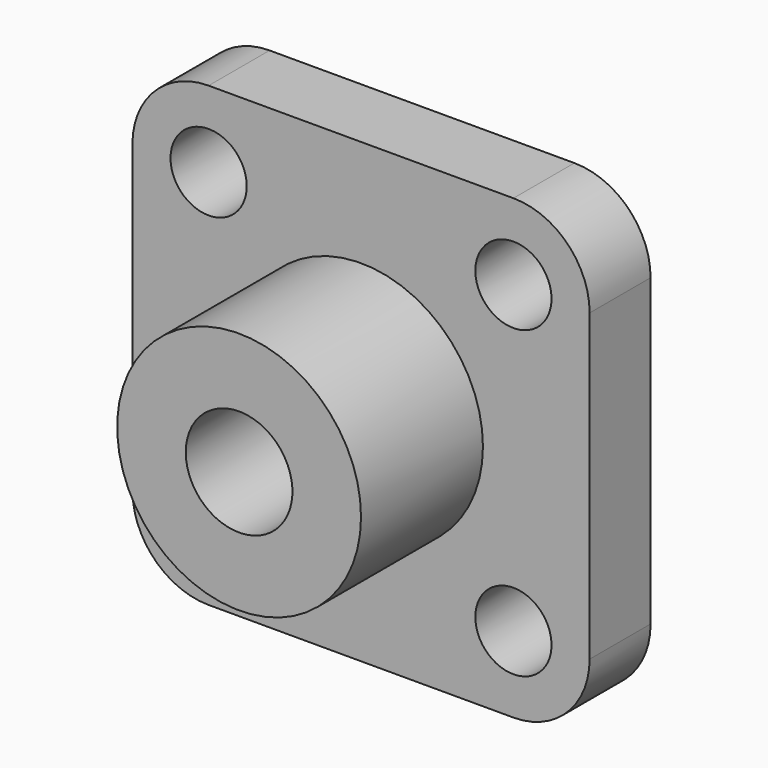
from build123d import *

# Parameters (mm, degrees)
F0_W     = 60
F0_H     = 60
F1_DEPTH = 10
F2_R     = 10
F4_D     = 10
F5_R     = 16
F6_DEPTH = 20
F8_D     = 14


with BuildPart() as f1:
    # F0 (on Front) → F1 (new body)
    with BuildSketch(Plane.XZ):
        Rectangle(F0_W, F0_H)
    extrude(amount=F1_DEPTH)

    # F2
    f2_edges = [f1.edges().sort_by_distance(p)[0] for p in [
        (-30, -5, 30),
        (-30, -5, -30),
        (30, -5, 30),
        (30, -5, -30),
    ]]
    fillet(f2_edges, radius=F2_R)

    # F4 (through all)
    with Locations(Plane.XZ.offset(10)):
        with Locations((-20, 20), (20, 20), (20, -20), (-20, -20)):
            Hole(F4_D / 2)

    # F5 (on face) → F6 (join)
    with BuildSketch(Plane.XZ.offset(10)):
        Circle(F5_R)
    extrude(amount=F6_DEPTH)

    # F8 (through all)
    with Locations(Plane.XZ.offset(30)):
        with Locations((0, 0)):
            Hole(F8_D / 2)


solid = f1.part
